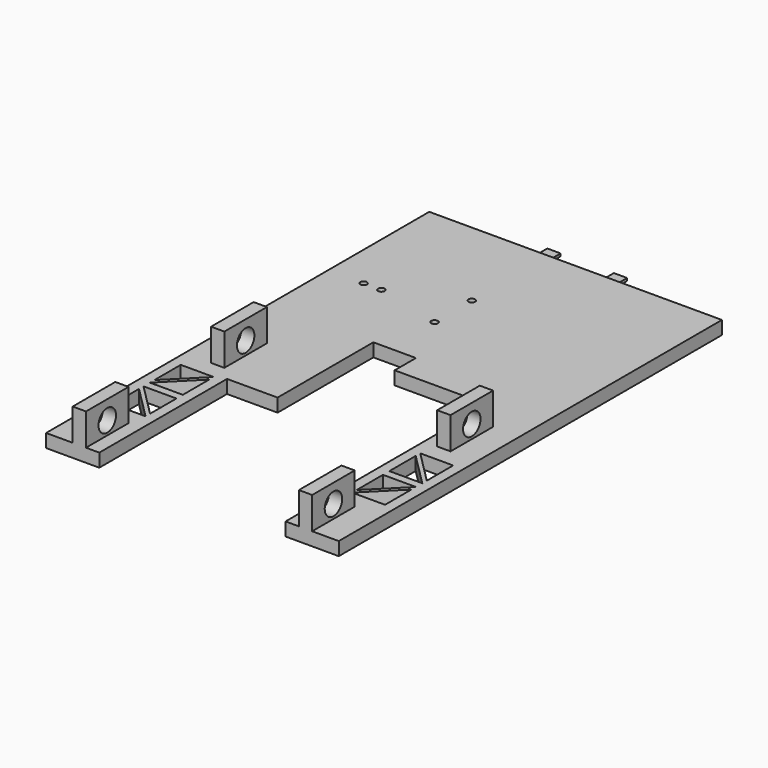
from build123d import *

# Parameters (mm, degrees)
F0_R      = 1.5875
F1_DEPTH  = 6.35
F2_W      = 6.35
F2_H      = 25.4
F3_DEPTH  = 15.24
F5_D      = 10.414
F8_W      = 2.31775
F8_H      = 1.27
F9_DEPTH  = 6.35
F11_W     = 2.31775
F11_H     = 1.27
F12_DEPTH = 6.35
F13_R     = 0.508
F15_DEPTH = 25.4


with BuildPart() as f1:
    # F0 (on Top) → F1 (new body)
    with BuildSketch(Plane.XY):
        Polygon((69.85, 114.3), (-69.85, 114.3), (-69.85, -114.3), (-44.45, -114.3), (-44.45, -107.95), (-44.45, -38.1), (-20.32, -38.1), (-20.32, 19.05), (0, 19.05), (0, 6.35), (44.45, 6.35), (44.45, -38.1), (44.45, -88.9), (44.45, -95.25), (44.45, -114.3), (69.85, -114.3), align=None)
        with Locations((-52.91582, 53.975)):
            Circle(F0_R, mode=Mode.SUBTRACT)
        with Locations((-44.45, 53.975)):
            Circle(F0_R, mode=Mode.SUBTRACT)
        with Locations((-12.7, 46.0375)):
            Circle(F0_R, mode=Mode.SUBTRACT)
        with Locations((-12.7, 68.2625)):
            Circle(F0_R, mode=Mode.SUBTRACT)
    extrude(amount=F1_DEPTH)

    # F2 (on face) → F3 (join)
    with BuildSketch(Plane.XY.offset(6.35)):
        with Locations((-53.975, -101.6)):
            Rectangle(F2_W, F2_H)
        with Locations((53.975, -101.6)):
            Rectangle(F2_W, F2_H)
        with Locations((-53.975, -19.05)):
            Rectangle(F2_W, F2_H)
        with Locations((53.975, -19.05)):
            Rectangle(F2_W, F2_H)
    extrude(amount=F3_DEPTH)

    # F5 (through all)
    with Locations(Plane.YZ.offset(57.15)):
        with Locations((-101.6, 12.7), (-19.05, 12.7)):
            Hole(F5_D / 2)

    # F8 (on offset) → F9 (join)
    with BuildSketch(Plane.YZ.offset(12.7)):
        with Locations((120.094375, 4.0005)):
            Rectangle(F8_W, F8_H)
        Polygon((118.9355, 3.3655), (118.9355, 4.6355), (116.61775, 4.6355), (116.61775, 3.175), (114.3, 3.175), (114.3, 0), (118.9355, 0), align=None)
    extrude(amount=F9_DEPTH)

    # F11 (on offset) → F12 (join)
    with BuildSketch(Plane.YZ.offset(-12.7)):
        with Locations((120.094375, 4.0005)):
            Rectangle(F11_W, F11_H)
        Polygon((118.9355, 3.3655), (118.9355, 4.6355), (116.61775, 4.6355), (116.61775, 3.175), (114.3, 3.175), (114.3, 0), (118.9355, 0), align=None)
    extrude(amount=-F12_DEPTH)

    # F13
    f13_edges = [f1.edges().sort_by_distance(p)[0] for p in [
        (15.875, 121.25325, 3.3655),
        (-15.875, 121.25325, 3.3655),
        (-15.875, 116.61775, 4.6355),
        (15.875, 116.61775, 4.6355),
    ]]
    fillet(f13_edges, radius=F13_R)

    # F14 (on face) → F15 (cut)
    with BuildSketch(Plane.XY.offset(6.35)):
        Polygon((-49.2903768363, -40.005), (-65.0113, -40.005), (-65.0113, -55.7259231637), align=None)
        Polygon((-49.2903768363, -58.42), (-49.2903768363, -42.6990768363), (-65.0113, -58.42), align=None)
        Polygon((-49.2903768363, -62.23), (-65.0113, -62.23), (-49.2903768363, -77.9509231637), align=None)
        Polygon((-65.0113, -64.9240768363), (-65.0113, -80.645), (-49.2903768363, -80.645), align=None)
        Polygon((65.0113, -64.9240768363), (49.2903768363, -80.645), (65.0113, -80.645), align=None)
        Polygon((49.2903768363, -77.9509231637), (65.0113, -62.23), (49.2903768363, -62.23), align=None)
        Polygon((65.0113, -58.42), (49.2903768363, -42.6990768363), (49.2903768363, -58.42), align=None)
        Polygon((49.2903768363, -40.005), (65.0113, -55.7259231637), (65.0113, -40.005), align=None)
    extrude(amount=-F15_DEPTH, mode=Mode.SUBTRACT)


solid = f1.part
